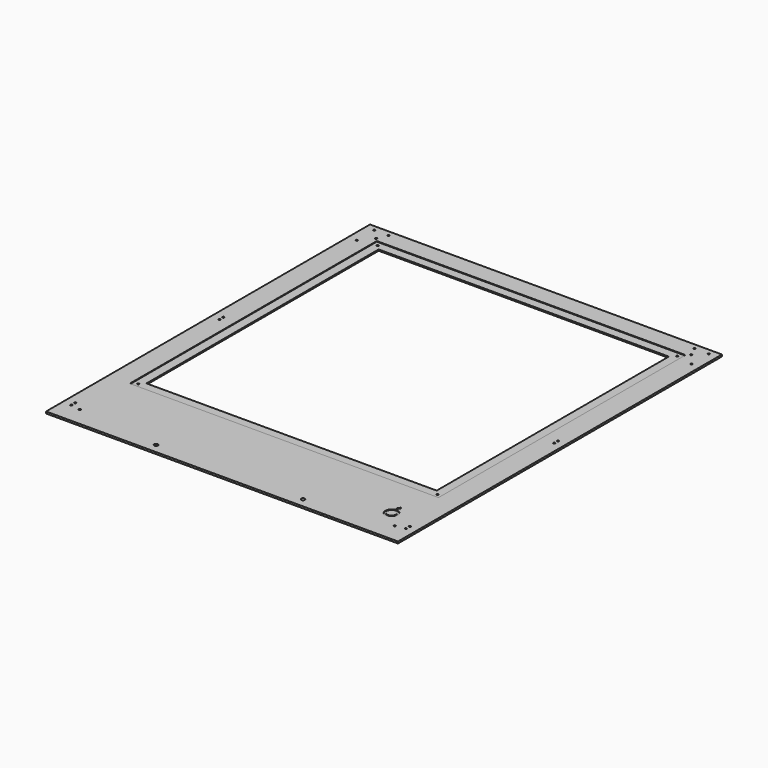
from build123d import *

# Parameters (mm, degrees)
SKETCH005_W     = 570
SKETCH005_H     = 780
PAD001_DEPTH    = 3
SKETCH006_W     = 500
SKETCH006_H     = 500
POCKET004_DEPTH = 1
SKETCH007_R     = 10
SKETCH007_R_2   = 7
POCKET005_DEPTH = 1
SKETCH008_R     = 1.6
POCKET006_DEPTH = 3.001
SKETCH009_W     = 470
SKETCH009_H     = 470
POCKET007_DEPTH = 5
SKETCH030_R     = 1.5
POCKET017_DEPTH = 1935.159379
SKETCH031_R     = 1.5
POCKET018_DEPTH = 5
SKETCH032_R     = 1.5
POCKET019_DEPTH = 2.001
SKETCH033_W     = 606.362244
SKETCH033_H     = 146.592987
POCKET020_DEPTH = 5
SKETCH034_R     = 3
POCKET021_DEPTH = 5


with BuildPart() as part:
    # Sketch005 → Pad001 (new body)
    with BuildSketch(Plane.XY):
        with Locations((0, -110)):
            Rectangle(SKETCH005_W, SKETCH005_H)
    extrude(amount=PAD001_DEPTH)

    # Sketch006 (on Face6 of Pad001) → Pocket004 (cut)
    with BuildSketch(Plane.XY.offset(3)):
        Rectangle(SKETCH006_W, SKETCH006_H)
    extrude(amount=-POCKET004_DEPTH, mode=Mode.SUBTRACT)

    # Sketch007 (on Face5 of Pocket004) → Pocket005 (cut)
    with BuildSketch(Plane.XY.offset(3)):
        with Locations((230, -320)):
            Circle(SKETCH007_R)
        with Locations((230, -320)):
            Circle(SKETCH007_R_2, mode=Mode.SUBTRACT)
        Polygon((230, -301), (226.535898, -307), (233.464102, -307), align=None)
    extrude(amount=-POCKET005_DEPTH, mode=Mode.SUBTRACT)

    # Sketch008 (on Face5 of Pocket005) → Pocket006 (cut, through all)
    with BuildSketch(Plane.XY.offset(3)):
        with Locations((-255, 255)):
            Circle(SKETCH008_R)
        with Locations((255, 255)):
            Circle(SKETCH008_R)
        with Locations((255, -345)):
            Circle(SKETCH008_R)
        with Locations((-255, -345)):
            Circle(SKETCH008_R)
    extrude(amount=-POCKET006_DEPTH, mode=Mode.SUBTRACT)

    # Sketch009 (on Face20 of Pocket006) → Pocket007 (cut)
    with BuildSketch(Plane.XY.offset(2)):
        Rectangle(SKETCH009_W, SKETCH009_H)
    extrude(amount=-POCKET007_DEPTH, mode=Mode.SUBTRACT)

    # Sketch030 (on Face5 of Pocket007) → Pocket017 (cut, through all)
    with BuildSketch(Plane.XY.offset(3)):
        with Locations((-271, 271)):
            Circle(SKETCH030_R)
        with Locations((-247.791107, 271)):
            Circle(SKETCH030_R)
        with Locations((-271, 235.791107)):
            Circle(SKETCH030_R)
        with Locations((-271, -334.320353)):
            Circle(SKETCH030_R)
        with Locations((-271, -342.206532)):
            Circle(SKETCH030_R)
    pocket017 = extrude(amount=-POCKET017_DEPTH, mode=Mode.SUBTRACT)

    # Mirrored: Pocket017 across Sketch030 V_Axis
    add(pocket017.mirror(Plane(origin=(0, 0, 3), x_dir=(0, 0, 1), z_dir=(1, 0, 0))), mode=Mode.SUBTRACT)

    # Sketch031 (on Face1 of CopyClone) → Pocket018 (cut)
    with BuildSketch(Plane(origin=(0, 300, 5), x_dir=(1, 0, 0), z_dir=(0, 0, 1))):
        with Locations((-271, -334.320353)):
            Circle(SKETCH031_R)
        with Locations((-271, -342.206532)):
            Circle(SKETCH031_R)
    pocket018 = extrude(amount=-POCKET018_DEPTH, mode=Mode.SUBTRACT)

    # Mirrored001: Pocket018 across Sketch031 V_Axis
    add(pocket018.mirror(Plane(origin=(0, 300, 5), x_dir=(0, 0, 1), z_dir=(1, 0, 0))), mode=Mode.SUBTRACT)

    # Sketch032 (on Face37 of Mirrored001) → Pocket019 (cut, through all)
    with BuildSketch(Plane.XY.offset(2)):
        with Locations((-242.5, 242.5)):
            Circle(SKETCH032_R)
        with Locations((242.5, 242.5)):
            Circle(SKETCH032_R)
        with Locations((-242.5, -242.5)):
            Circle(SKETCH032_R)
        with Locations((242.5, -242.5)):
            Circle(SKETCH032_R)
    extrude(amount=-POCKET019_DEPTH, mode=Mode.SUBTRACT)

    # Sketch033 (on Face5 of Pocket019) → Pocket020 (cut)
    with BuildSketch(Plane.XY.offset(3)):
        with Locations((-0.325326, -449.115615)):
            Rectangle(SKETCH033_W, SKETCH033_H)
    extrude(amount=-POCKET020_DEPTH, mode=Mode.SUBTRACT)

    # Sketch034 (on Face5 of Pocket020) → Pocket021 (cut)
    with BuildSketch(Plane.XY.offset(3)):
        with Locations((-119.131943, -360.561218)):
            Circle(SKETCH034_R)
        with Locations((119.131943, -360.561218)):
            Circle(SKETCH034_R)
    extrude(amount=-POCKET021_DEPTH, mode=Mode.SUBTRACT)


solid = part.part
